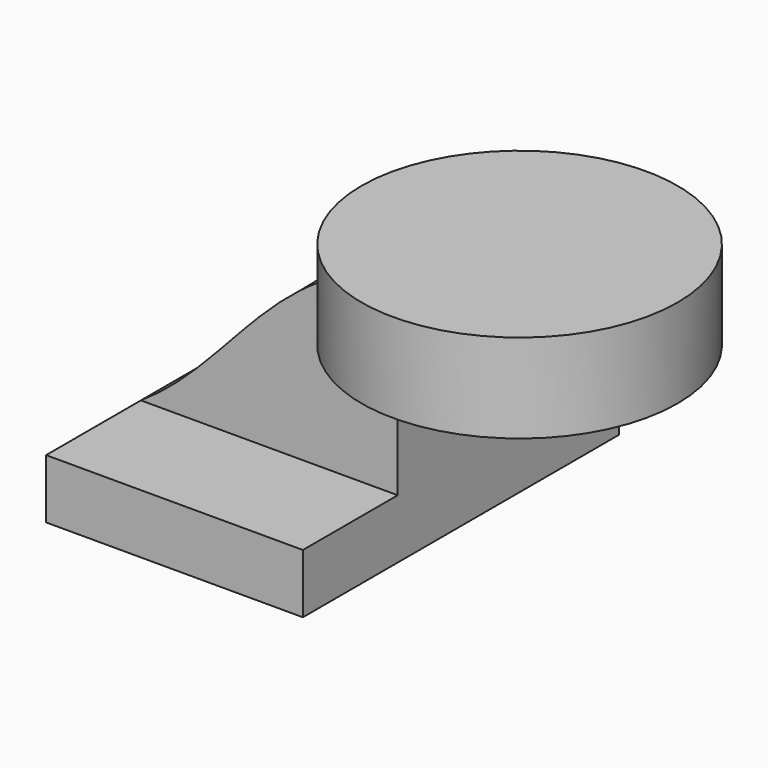
from build123d import *

# Parameters (mm, degrees)
F1_DEPTH = 63.5
F2_DEPTH = 25.4


with BuildPart() as f1:
    # F0 (on Front) → F1 (new body, symmetric)
    with BuildSketch(Plane.XZ):
        Polygon((22.225, 9.525), (-41.275, 9.525), (-41.275, -9.525), (41.275, -9.525), (41.275, 9.525), align=None)
    extrude(amount=F1_DEPTH, both=True)

    # F0 (on Front) → F2 (join, symmetric)
    with BuildSketch(Plane.XZ):
        with BuildLine():
            add(Edge.make_bspline(
                [(-41.275, 9.525), (-7.472832, 31.815227), (2.111726, 70.312925), (60.131503, 76.395682)],
                knots=[0, 0, 0, 0, 121.470025, 121.470025, 121.470025, 121.470025], degree=3))
            Line((-41.275, 9.525), (22.225, 9.525))
            Line((22.225, 9.525), (22.225, 40.7162))
            ThreePointArc((22.225, 40.7162), (32.454296, 65.411904), (57.15, 75.6412))
            Line((57.15, 75.6412), (60.131503, 75.6412))
            Line((60.131503, 75.6412), (60.131503, 76.395682))
        make_face()
        with BuildLine():
            Line((22.225, 40.7162), (22.225, 9.525))
            Line((22.225, 9.525), (41.275, 9.525))
            Line((41.275, 9.525), (41.275, 40.7162))
            ThreePointArc((41.275, 40.7162), (45.92468, 51.94152), (57.15, 56.5912))
            Line((57.15, 56.5912), (60.131503, 56.5912))
            Line((60.131503, 56.5912), (60.131503, 75.6412))
            Line((60.131503, 75.6412), (57.15, 75.6412))
            ThreePointArc((57.15, 75.6412), (32.454296, 65.411904), (22.225, 40.7162))
        make_face()
    extrude(amount=F2_DEPTH, both=True)

    # F0 (on Front) → F3 (revolve)
    with BuildSketch(Plane.XZ):
        Polygon((110.931503, 76.395682), (60.131503, 76.395682), (60.131503, 75.6412), (60.131503, 56.5912), (60.131503, 47.820682), (110.931503, 47.820682), align=None)
    revolve(axis=Axis((60.131503, 0, 62.108182), (0, 0, 1)))


solid = f1.part
